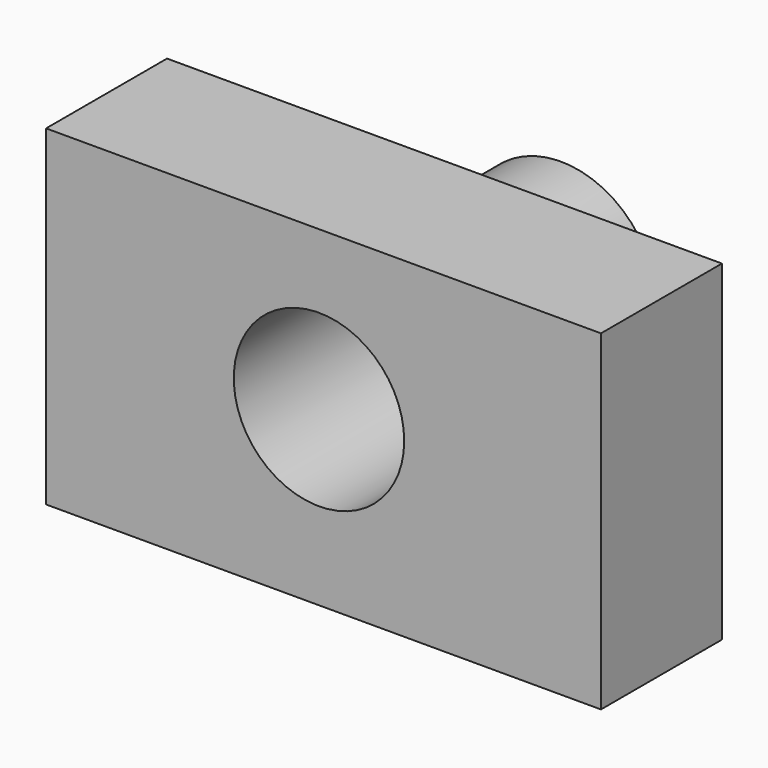
from build123d import *

# Parameters (mm, degrees)
F0_W          = 91.7500033975
F0_H          = 54.7500047833
F0_R          = 15.7723069733
F1_DEPTH      = 25
F0_R_2        = 14.0912223612
F2_DEPTH      = 25
F2_DEPTH_BACK = 25


with BuildPart() as f1:
    # F0 (on Front) → F1 (new body)
    with BuildSketch(Plane.XZ):
        with Locations((0.7499977946, -7.1250004694)):
            Rectangle(F0_W, F0_H)
        with Locations((0, -6.0000005178)):
            Circle(F0_R, mode=Mode.SUBTRACT)
    extrude(amount=F1_DEPTH)

    # F0 (on Front) → F2 (join, two sides)
    with BuildSketch(Plane.XZ) as f2_sk:
        with Locations((0, -6.0000005178)):
            Circle(F0_R)
        with Locations((0, -6.0000005178)):
            Circle(F0_R_2, mode=Mode.SUBTRACT)
    extrude(amount=-F2_DEPTH)
    extrude(f2_sk.sketch, amount=F2_DEPTH_BACK)


solid = f1.part
